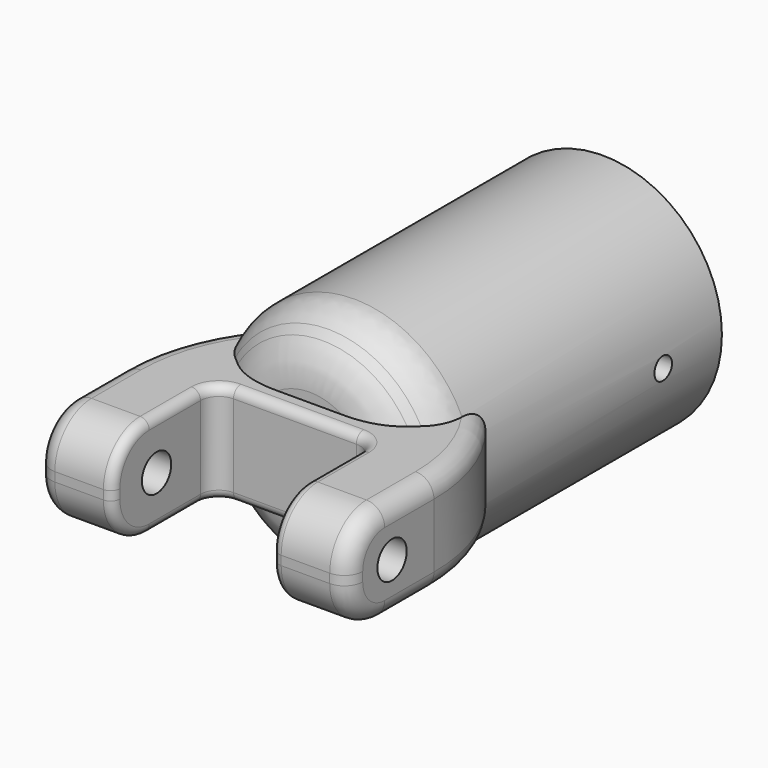
from build123d import *

# Parameters (mm, degrees)
CYLINDER013_R     = 1.2
CYLINDER013_DEPTH = 30
CYLINDER010_R     = 2
CYLINDER010_DEPTH = 50
BOX003_W          = 17.4
BOX003_H          = 26
BOX003_DEPTH      = 13
FILLET012_R       = 2
CYLINDER011_R     = 10
CYLINDER011_DEPTH = 40
CHAMFER008_SIZE   = 9
CYLINDER012_R     = 13
CYLINDER012_DEPTH = 40
CHAMFER009_SIZE   = 4
FILLET016_R       = 6
FILLET017_R       = 5
BOX004_W          = 34
BOX004_H          = 30
BOX004_DEPTH      = 11
FILLET013_R       = 5
CHAMFER010_SIZE   = 10
FILLET018_R       = 20
FILLET019_R       = 2
FILLET020_R       = 2
FILLET021_R       = 1


with BuildPart() as cylinder013:
    # Cylinder013 → Cylinder013 (new body)
    with BuildSketch(Plane(origin=(-15, 60, 6.5), x_dir=(0, 0, -1), z_dir=(1, 0, 0))):
        Circle(CYLINDER013_R)
    extrude(amount=CYLINDER013_DEPTH)


with BuildPart() as cylinder010:
    # Cylinder010 → Cylinder010 (new body)
    with BuildSketch(Plane(origin=(-25, 18, 6.5), x_dir=(0, 0, -1), z_dir=(1, 0, 0))):
        Circle(CYLINDER010_R)
    extrude(amount=CYLINDER010_DEPTH)


with BuildPart() as fillet012:
    # Box003 → Box003 (new body)
    with BuildSketch(Plane(origin=(-8.7, 0, 0), x_dir=(1, 0, 0), z_dir=(0, 0, 1))):
        with Locations((8.7, 13)):
            Rectangle(BOX003_W, BOX003_H)
    extrude(amount=BOX003_DEPTH)

    # Fillet012
    fillet012_edges = [fillet012.edges().sort_by_distance(p)[0] for p in [
        (-8.7, 26, 6.5),
        (8.7, 26, 6.5),
    ]]
    fillet(fillet012_edges, radius=FILLET012_R)


with BuildPart() as fusion005:
    # Cylinder011 → Cylinder011 (new body)
    with BuildSketch(Plane(origin=(0, 70, 6.5), x_dir=(1, 0, 0), z_dir=(0, -1, 0))):
        Circle(CYLINDER011_R)
    extrude(amount=CYLINDER011_DEPTH)

    # Chamfer008
    chamfer008_edges = [fusion005.edges().sort_by_distance(p)[0] for p in [
        (-10, 30, 6.5),
    ]]
    chamfer(chamfer008_edges, length=CHAMFER008_SIZE)

    # Fusion005: union Cylinder013, Cylinder010, Fillet012
    add(cylinder013.part)
    add(cylinder010.part)
    add(fillet012.part)


with BuildPart() as fillet017:
    # Cylinder012 → Cylinder012 (new body)
    with BuildSketch(Plane(origin=(0, 68, 6.5), x_dir=(1, 0, 0), z_dir=(0, -1, 0))):
        Circle(CYLINDER012_R)
    extrude(amount=CYLINDER012_DEPTH)

    # Chamfer009
    chamfer009_edges = [fillet017.edges().sort_by_distance(p)[0] for p in [
        (-13, 28, 6.5),
    ]]
    chamfer(chamfer009_edges, length=CHAMFER009_SIZE)

    # Fillet016
    fillet016_edges = [fillet017.edges().sort_by_distance(p)[0] for p in [
        (-9, 28, 6.5),
    ]]
    fillet(fillet016_edges, radius=FILLET016_R)

    # Fillet017
    fillet017_edges = [fillet017.edges().sort_by_distance(p)[0] for p in [
        (-13, 32, 6.5),
    ]]
    fillet(fillet017_edges, radius=FILLET017_R)


with BuildPart() as obj1:
    # Box004 → Box004 (new body)
    with BuildSketch(Plane(origin=(-17, 12, 1), x_dir=(1, 0, 0), z_dir=(0, 0, 1))):
        with Locations((17, 15)):
            Rectangle(BOX004_W, BOX004_H)
    extrude(amount=BOX004_DEPTH)

    # Fillet013
    fillet013_edges = [obj1.edges().sort_by_distance(p)[0] for p in [
        (0, 12, 1),
        (0, 12, 12),
    ]]
    fillet(fillet013_edges, radius=FILLET013_R)

    # Chamfer010
    chamfer010_edges = [obj1.edges().sort_by_distance(p)[0] for p in [
        (-17, 42, 6.5),
        (17, 42, 6.5),
    ]]
    chamfer(chamfer010_edges, length=CHAMFER010_SIZE)

    # Fillet018
    fillet018_edges = [obj1.edges().sort_by_distance(p)[0] for p in [
        (-17, 32, 6.5),
        (17, 32, 6.5),
    ]]
    fillet(fillet018_edges, radius=FILLET018_R)

    # Fillet019
    fillet019_edges = [obj1.edges().sort_by_distance(p)[0] for p in [
        (15.477591, 31.369397, 12),
    ]]
    fillet(fillet019_edges, radius=FILLET019_R)

    # Fillet020
    fillet020_edges = [obj1.edges().sort_by_distance(p)[0] for p in [
        (-15.477591, 31.369397, 12),
    ]]
    fillet(fillet020_edges, radius=FILLET020_R)

    # Fusion006: union Fillet017
    add(fillet017.part)

    # Cut005: cut Fusion005
    add(fusion005.part, mode=Mode.SUBTRACT)

    # Fillet021
    fillet021_edges = [obj1.edges().sort_by_distance(p)[0] for p in [
        (0, 26, 12),
    ]]
    fillet(fillet021_edges, radius=FILLET021_R)


solid = obj1.part
